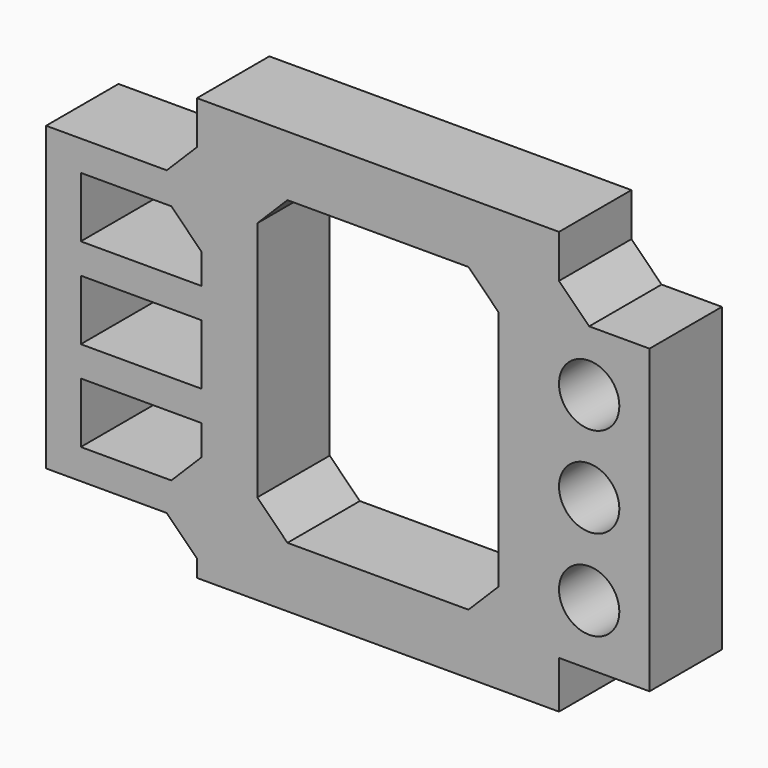
from build123d import *

# Parameters (mm, degrees)
F0_R     = 10
F1_DEPTH = 30


with BuildPart() as f1:
    # F0 (on Front) → F1 (new body)
    with BuildSketch(Plane.XZ):
        Polygon((-43.386797, 55.138951), (-53.386797, 45.138951), (-93.386797, 45.138951), (-93.386797, -54.861049), (-53.386797, -54.861049), (-43.386797, -64.861049), (-43.386797, -70.548529), (66.613203, -70.548529), (76.613203, -70.548529), (76.613203, -64.861049), (76.613203, -60.548529), (76.613203, -54.861049), (86.613203, -54.861049), (96.613203, -54.861049), (106.613203, -54.861049), (106.613203, -44.861049), (106.613203, 35.138951), (106.613203, 45.138951), (96.613203, 45.138951), (86.613203, 45.138951), (76.613203, 55.138951), (76.613203, 59.451471), (76.613203, 69.451471), (66.613203, 69.451471), (-33.386797, 69.451471), (-43.386797, 69.451471), (-43.386797, 59.451471), align=None)
        Polygon((-81.881762, -44.861049), (-81.881762, -24.861049), (-51.881762, -24.861049), (-41.881762, -24.861049), (-41.881762, -34.861049), (-51.881762, -44.861049), align=None, mode=Mode.SUBTRACT)
        Polygon((-81.881762, -14.861049), (-81.881762, 5.138951), (-51.881762, 5.138951), (-41.881762, 5.138951), (-41.881762, -4.861049), (-41.881762, -14.861049), align=None, mode=Mode.SUBTRACT)
        with Locations((86.613203, -34.861049)):
            Circle(F0_R, mode=Mode.SUBTRACT)
        with Locations((86.613203, -4.861049)):
            Circle(F0_R, mode=Mode.SUBTRACT)
        Polygon((-81.881762, 15.138951), (-81.881762, 35.138951), (-51.881762, 35.138951), (-41.881762, 25.138951), (-41.881762, 15.138951), align=None, mode=Mode.SUBTRACT)
        Polygon((-23.386797, 39.451471), (-13.386797, 49.451471), (46.613203, 49.451471), (56.613203, 39.451471), (56.613203, 24.451471), (56.613203, -0.548529), (56.613203, -40.548529), (46.613203, -50.548529), (-13.386797, -50.548529), (-23.386797, -40.548529), (-23.386797, -0.548529), (-23.386797, 24.451471), align=None, mode=Mode.SUBTRACT)
        with Locations((86.613203, 25.138951)):
            Circle(F0_R, mode=Mode.SUBTRACT)
    extrude(amount=F1_DEPTH)


solid = f1.part
